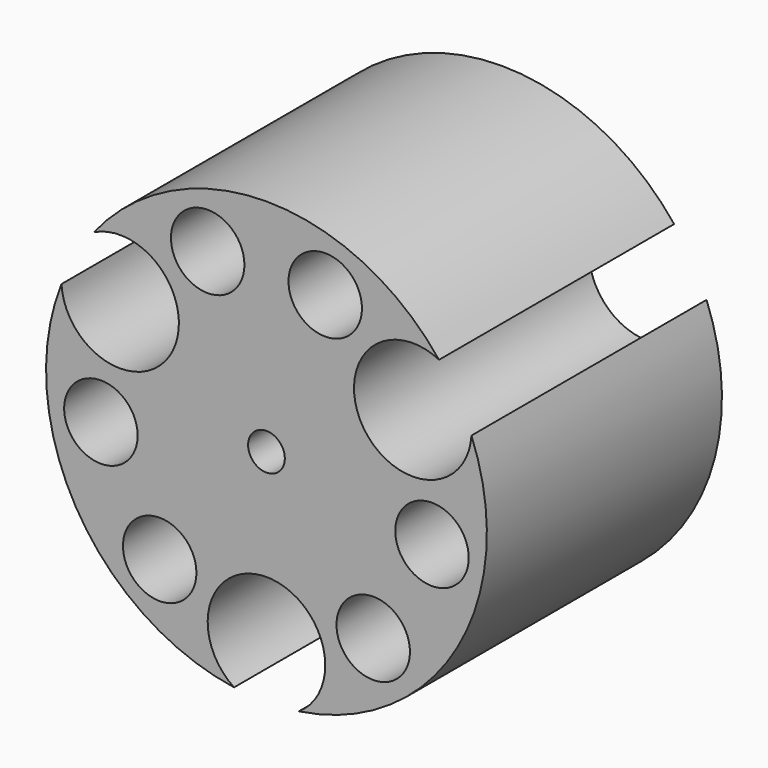
from build123d import *

# Parameters (mm, degrees)
F0_R     = 3.175
F0_R_2   = 1.5875
F1_DEPTH = 12.7


with BuildPart() as f1:
    # F0 (on Front) → F1 (new body, symmetric)
    with BuildSketch(Plane.XZ):
        with BuildLine():
            ThreePointArc((-14.9178970331, 11.8473139618), (-8.248891971, 4.7625), (-17.7190233741, 6.9956208208))
            ThreePointArc((-17.7190233741, 6.9956208208), (-16.4977839421, -9.525), (-2.801126341, -18.8429347826))
            ThreePointArc((-2.801126341, -18.8429347826), (0, -9.525), (2.801126341, -18.8429347826))
            ThreePointArc((2.801126341, -18.8429347826), (16.4977839421, -9.525), (17.7190233741, 6.9956208208))
            ThreePointArc((17.7190233741, 6.9956208208), (8.248891971, 4.7625), (14.9178970331, 11.8473139618))
            ThreePointArc((14.9178970331, 11.8473139618), (0, 19.05), (-14.9178970331, 11.8473139618))
        make_face()
        with Locations((-9.228419212, -11.1939090512)):
            Circle(F0_R, mode=Mode.SUBTRACT)
        with Locations((-14.308419212, -2.3950909488)):
            Circle(F0_R, mode=Mode.SUBTRACT)
        with Locations((9.228419212, -11.1939090512)):
            Circle(F0_R, mode=Mode.SUBTRACT)
        Circle(F0_R_2, mode=Mode.SUBTRACT)
        with Locations((14.308419212, -2.3950909488)):
            Circle(F0_R, mode=Mode.SUBTRACT)
        with Locations((-5.08, 13.589)):
            Circle(F0_R, mode=Mode.SUBTRACT)
        with Locations((5.08, 13.589)):
            Circle(F0_R, mode=Mode.SUBTRACT)
    extrude(amount=F1_DEPTH, both=True)


solid = f1.part
